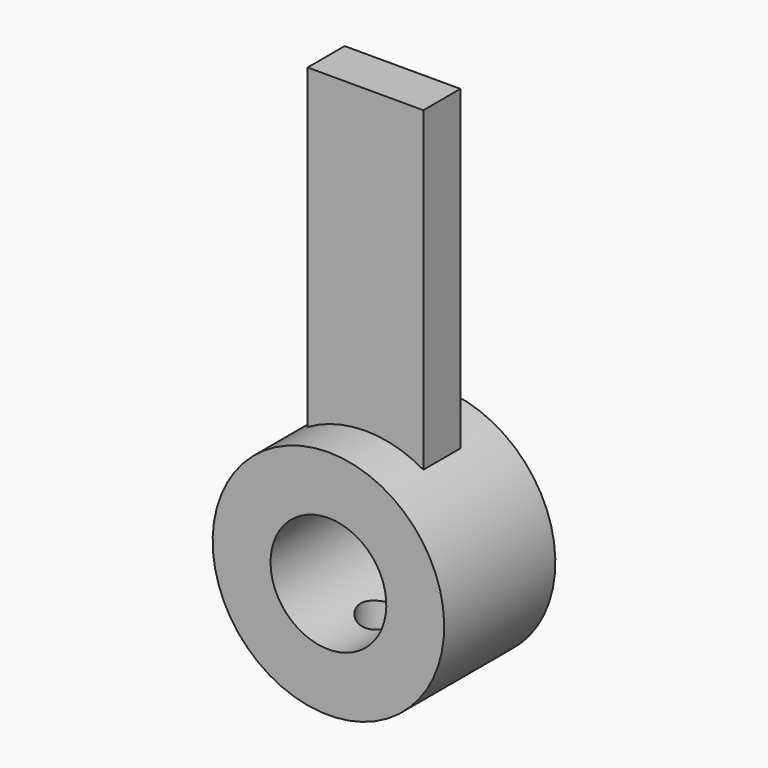
from build123d import *

# Parameters (mm, degrees)
CYLINDER019_R                = 1
CYLINDER019_DEPTH            = 5
CYLINDER018_R                = 2.5
CYLINDER018_DEPTH            = 8
CYLINDER017_R                = 5
CYLINDER017_DEPTH            = 6
BOX002_W                     = 18
BOX002_H                     = 5
BOX002_DEPTH                 = 2
CUT002002007_PITCH_ANGLE     = -90
CUT002002007_PLACEMENT_ANGLE = 90


with BuildPart() as cylinder019:
    # Cylinder019 → Cylinder019 (new body)
    with BuildSketch(Plane(origin=(0, 0, 3), x_dir=(0, 0, 1), z_dir=(-1, 0, 0))):
        Circle(CYLINDER019_R)
    extrude(amount=CYLINDER019_DEPTH)


with BuildPart() as fusion009:
    # Cylinder018 → Cylinder018 (new body)
    with BuildSketch(Plane.XY):
        Circle(CYLINDER018_R)
    extrude(amount=CYLINDER018_DEPTH)

    # Fusion009: union Cylinder019
    add(cylinder019.part)


with BuildPart() as cylinder017:
    # Cylinder017 → Cylinder017 (new body)
    with BuildSketch(Plane.XY):
        Circle(CYLINDER017_R)
    extrude(amount=CYLINDER017_DEPTH)


with BuildPart() as limitswitchpinminute:
    # Box002 → Box002 (new body)
    with BuildSketch(Plane(origin=(0, -2.5, 2), x_dir=(1, 0, 0), z_dir=(0, 0, 1))):
        with Locations((9, 2.5)):
            Rectangle(BOX002_W, BOX002_H)
    extrude(amount=BOX002_DEPTH)

    # Fusion008: union Cylinder017
    add(cylinder017.part)

    # Cut002002007: cut Fusion009
    add(fusion009.part, mode=Mode.SUBTRACT)


with BuildPart() as limitswitchpinminute_1:
    # Cut002002007 pitch: moved
    add(limitswitchpinminute.part.rotate(Axis((0, 0, 0), (0, 1, 0)), CUT002002007_PITCH_ANGLE))


with BuildPart() as limitswitchpinminute_2:
    # Cut002002007 placement: moved
    add(limitswitchpinminute_1.part.moved(Location((0, 13, 30))).rotate(Axis((0, 13, 30), (0, 0, 1)), CUT002002007_PLACEMENT_ANGLE))


solid = limitswitchpinminute_2.part
